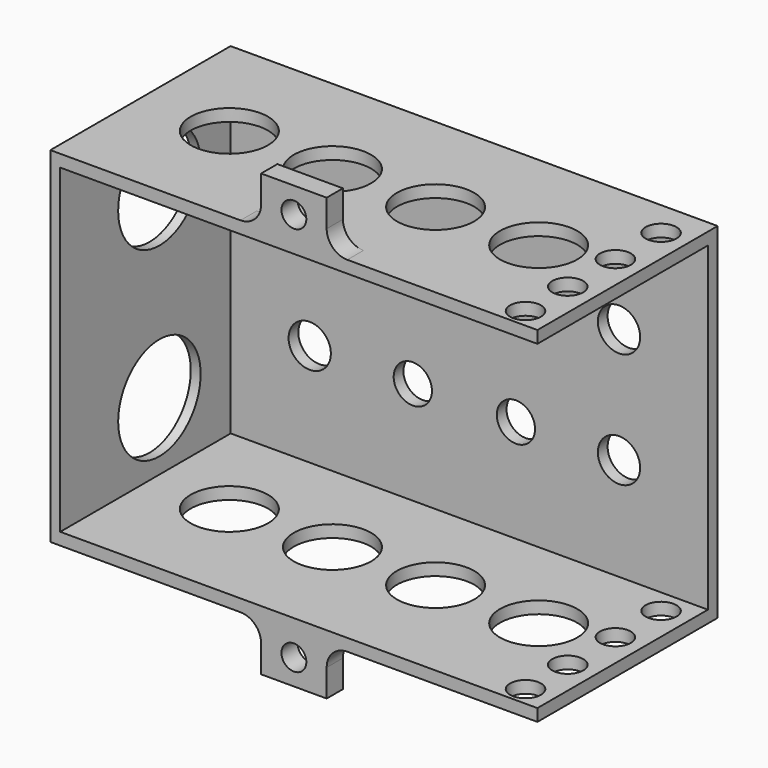
from build123d import *

# Parameters (mm, degrees)
F0_W      = 120
F0_H      = 85
F0_R      = 5.209452
F0_R_2    = 4.712977
F1_DEPTH  = 3
F2_W      = 120
F2_H      = 3
F3_DEPTH  = 52.5
F5_W      = 16.148806
F5_H      = 12.583495
F5_R      = 3.062628
F6_DEPTH  = 5
F7_R      = 5.08
F9_R      = 9.525
F10_DEPTH = 152.4
F11_W     = 2.430552
F11_H     = 84.969267
F12_DEPTH = 52.5
F13_R     = 12.7
F14_DEPTH = 25.4
F15_R     = 3.81
F16_DEPTH = 152.4


with BuildPart() as f1:
    # F0 (on Front) → F1 (new body)
    with BuildSketch(Plane.XZ):
        Rectangle(F0_W, F0_H)
        with Locations((-38.1, -14.170533)):
            Circle(F0_R, mode=Mode.SUBTRACT)
        with Locations((-12.7, -14.170533)):
            Circle(F0_R_2, mode=Mode.SUBTRACT)
        with Locations((12.7, -14.170533)):
            Circle(F0_R_2, mode=Mode.SUBTRACT)
        with Locations((38.1, -14.170533)):
            Circle(F0_R, mode=Mode.SUBTRACT)
        with Locations((-38.1, 14.170533)):
            Circle(F0_R, mode=Mode.SUBTRACT)
        with Locations((-12.7, 14.170533)):
            Circle(F0_R_2, mode=Mode.SUBTRACT)
        with Locations((12.7, 14.170533)):
            Circle(F0_R_2, mode=Mode.SUBTRACT)
        with Locations((38.1, 14.170533)):
            Circle(F0_R, mode=Mode.SUBTRACT)
    extrude(amount=F1_DEPTH)

    # F2 (on face) → F3 (join)
    with BuildSketch(Plane.XZ.offset(3)):
        with Locations((0, 41)):
            Rectangle(F2_W, F2_H)
    extrude(amount=F3_DEPTH)

    # F4: F1 across plane


with BuildPart() as f1_1:
    add(f1.part)
    add(f1.part.mirror(Plane.XY))

    # F5 (on face) → F6 (join)
    with BuildSketch(Plane.XZ.offset(55.5)):
        with Locations((0, 48.026971)):
            Rectangle(F5_W, F5_H)
        with Locations((0, 48.026972)):
            Circle(F5_R, mode=Mode.SUBTRACT)
    extrude(amount=-F6_DEPTH)

    # F7
    f7_edges = [f1_1.edges().sort_by_distance(p)[0] for p in [
        (-8.074403, -53, 42.5),
        (8.074403, -53, 42.5),
    ]]
    fillet(f7_edges, radius=F7_R)

    # F8: F1 across plane


with BuildPart() as f1_2:
    add(f1_1.part)
    add(f1_1.part.mirror(Plane.XY))

    # F9 (on face) → F10 (cut)
    with BuildSketch(Plane.XY.offset(42.5)):
        with Locations((-38.1, -27.75)):
            Circle(F9_R)
        with Locations((-12.7, -27.75)):
            Circle(F9_R)
        with Locations((12.7, -27.75)):
            Circle(F9_R)
        with Locations((38.1, -27.75)):
            Circle(F9_R)
    extrude(amount=-F10_DEPTH, mode=Mode.SUBTRACT)

    # F11 (on face) → F12 (join, through all)
    with BuildSketch(Plane.XZ.offset(3)):
        with Locations((-58.784724, -0.015367)):
            Rectangle(F11_W, F11_H)
    extrude(amount=F12_DEPTH)

    # F13 (on face) → F14 (cut)
    with BuildSketch(Plane(origin=(-60, 0, 0), x_dir=(0, -1, 0), z_dir=(-1, 0, 0))):
        with Locations((24.957247, 22.86)):
            Circle(F13_R)
        with Locations((24.957247, -22.86)):
            Circle(F13_R)
    extrude(amount=-F14_DEPTH, mode=Mode.SUBTRACT)

    # F15 (on face) → F16 (cut)
    with BuildSketch(Plane(origin=(0, 0, -42.5), x_dir=(1, 0, 0), z_dir=(0, 0, -1))):
        with Locations((53.270094, 50.753396)):
            Circle(F15_R)
        with Locations((53.270094, 37.75046)):
            Circle(F15_R)
        with Locations((53.270094, 23.069726)):
            Circle(F15_R)
        with Locations((53.270094, 9.018165)):
            Circle(F15_R)
    extrude(amount=-F16_DEPTH, mode=Mode.SUBTRACT)


solid = f1_2.part
